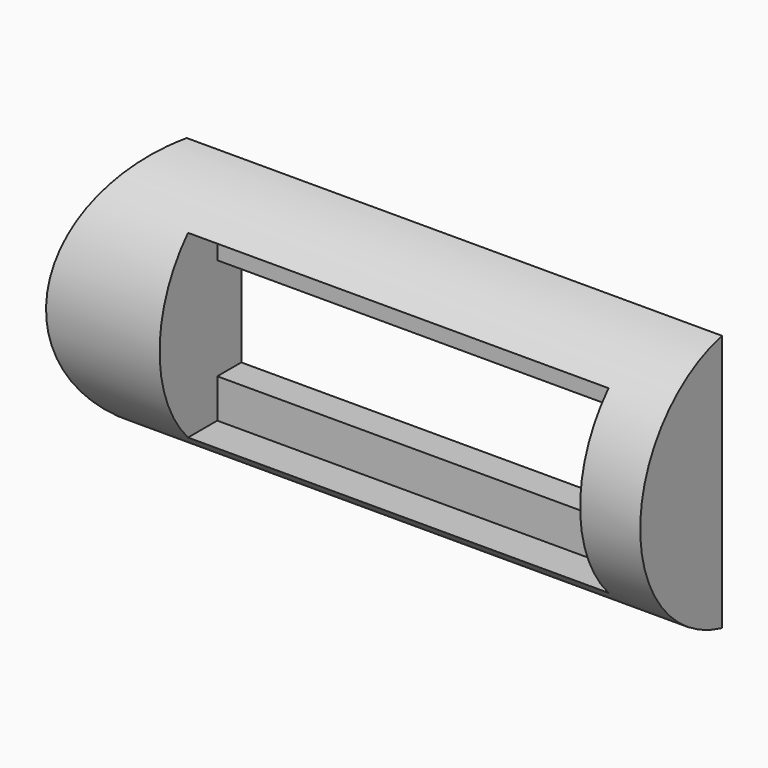
from build123d import *

# Parameters (mm, degrees)
BOX003_W               = 14
BOX003_H               = 10
BOX003_DEPTH           = 10
BOX003_PLACEMENT_ANGLE = 60
BOX002_W               = 7
BOX002_H               = 1.6
BOX002_DEPTH           = 3
BOX001_W               = 7
BOX001_H               = 5
BOX001_DEPTH           = 1.7
BOX_W                  = 14
BOX_H                  = 7
BOX_DEPTH              = 10
CYLINDER_R             = 2.2
CYLINDER_DEPTH         = 13


with BuildPart() as obj1:
    # Box003 → Box003 (new body)
    with BuildSketch(Plane.XY):
        with Locations((7, 5)):
            Rectangle(BOX003_W, BOX003_H)
    extrude(amount=BOX003_DEPTH)


with BuildPart() as obj1_1:
    # Box003 placement: moved
    add(obj1.part.moved(Location((-3.2, -6.2, -4))).rotate(Axis((-3.2, -6.2, -4), (0, 0, 1)), BOX003_PLACEMENT_ANGLE))


with BuildPart() as obj2:
    # Box002 → Box002 (new body)
    with BuildSketch(Plane(origin=(1, -2.6, -1.5), x_dir=(1, 0, 0), z_dir=(0, 0, 1))):
        with Locations((3.5, 0.8)):
            Rectangle(BOX002_W, BOX002_H)
    extrude(amount=BOX002_DEPTH)


with BuildPart() as obj3:
    # Box001 → Box001 (new body)
    with BuildSketch(Plane(origin=(1, -4, -0.85), x_dir=(1, 0, 0), z_dir=(0, 0, 1))):
        with Locations((3.5, 2.5)):
            Rectangle(BOX001_W, BOX001_H)
    extrude(amount=BOX001_DEPTH)


with BuildPart() as obj4:
    # Box → Box (new body)
    with BuildSketch(Plane(origin=(-4, -0.5, -4), x_dir=(1, 0, 0), z_dir=(0, 0, 1))):
        with Locations((7, 3.5)):
            Rectangle(BOX_W, BOX_H)
    extrude(amount=BOX_DEPTH)


with BuildPart() as body:
    # Sketch → Revolution (revolve)
    with BuildSketch(Plane.XY):
        with BuildLine():
            add(Edge.make_bspline(
                [(1.699821, 2.2), (2.24, 1.1), (2.24, 0)],
                knots=[-2.2, -2.2, -2.2, 0, 0, 0], degree=2))
            Line((2.24, 0), (1.699821, 0))
            Line((1.699821, 0), (1.699821, 2.2))
        make_face()
    revolve(axis=Axis((0, 0, 0), (1, 0, 0)))


with BuildPart() as body_1:
    # Body placement: moved
    add(body.part.moved(Location((-1.7, 20, 0))))


with BuildPart() as cut004:
    # Cylinder → Cylinder (new body)
    with BuildSketch(Plane(origin=(-4, 0, 0), x_dir=(0, 0, -1), z_dir=(1, 0, 0))):
        Circle(CYLINDER_R)
    extrude(amount=CYLINDER_DEPTH)

    # Cut: cut Body
    add(body_1.part, mode=Mode.SUBTRACT)

    # Cut001: cut obj4
    add(obj4.part, mode=Mode.SUBTRACT)

    # Cut002: cut obj3
    add(obj3.part, mode=Mode.SUBTRACT)

    # Cut003: cut obj2
    add(obj2.part, mode=Mode.SUBTRACT)

    # Cut004: cut obj1
    add(obj1_1.part, mode=Mode.SUBTRACT)


solid = cut004.part
